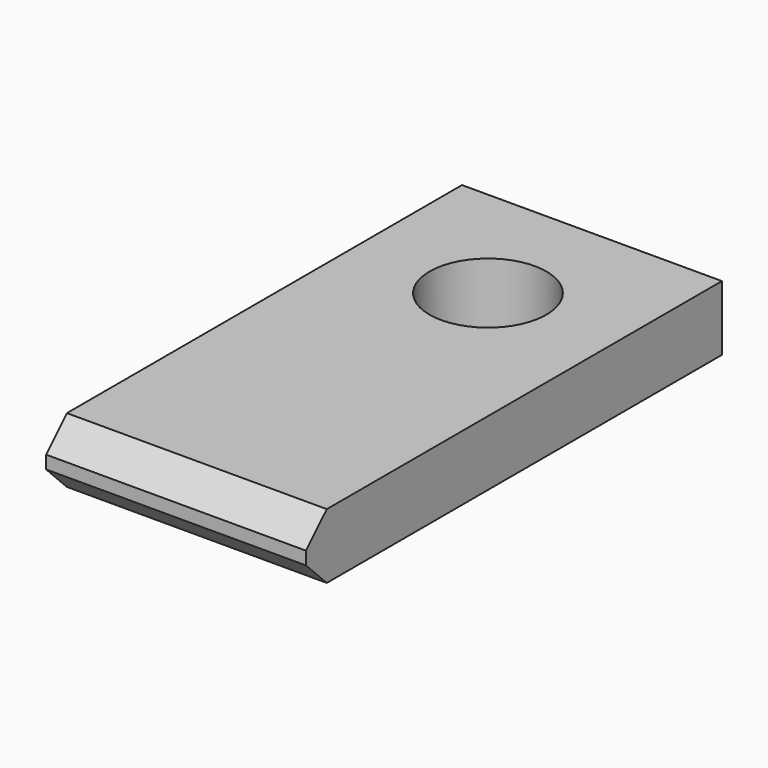
from build123d import *

# Parameters (mm, degrees)
F0_W     = 20
F0_H     = 5
F1_DEPTH = 40
F3_D     = 9
F4_SIZE  = 2


with BuildPart() as f1:
    # F0 (on Front) → F1 (new body)
    with BuildSketch(Plane.XZ):
        Rectangle(F0_W, F0_H)
    extrude(amount=F1_DEPTH)

    # F3 (through all)
    with Locations(Plane.XY.offset(2.5)):
        with Locations((0, -10)):
            Hole(F3_D / 2)

    # F4
    f4_edges = [f1.edges().sort_by_distance(p)[0] for p in [
        (0, -40, 2.5),
        (0, -40, -2.5),
    ]]
    chamfer(f4_edges, length=F4_SIZE)


solid = f1.part
